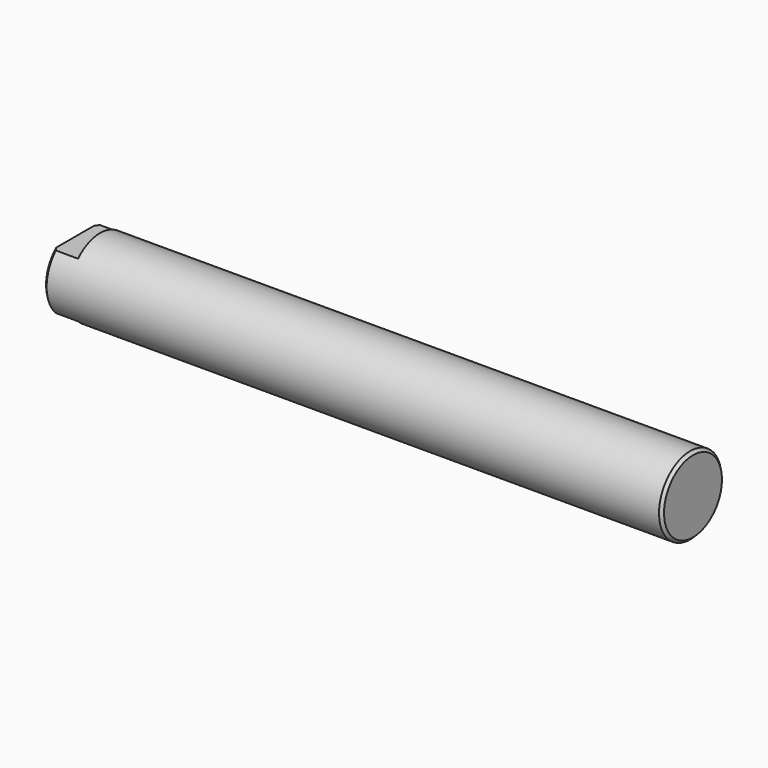
from build123d import *

# Parameters (mm, degrees)
F0_W     = 111
F0_H     = 7
F2_W     = 4.5
F2_H     = 2.05
F3_DEPTH = 12.5
F4_SIZE  = 0.5


with BuildPart() as f1:
    # F0 (on Front) → F1 (revolve)
    with BuildSketch(Plane.XZ):
        with Locations((55.5, 3.5)):
            Rectangle(F0_W, F0_H)
    revolve(axis=Axis((55.5, 0, 0), (-1, 0, 0)))

    # F2 (on Front) → F3 (cut, symmetric)
    with BuildSketch(Plane.XZ):
        with Locations((2.25, 5.975)):
            Rectangle(F2_W, F2_H)
        with Locations((2.25, -5.975)):
            Rectangle(F2_W, F2_H)
    extrude(amount=F3_DEPTH, both=True, mode=Mode.SUBTRACT)

    # F4
    f4_edges = [f1.edges().sort_by_distance(p)[0] for p in [
        (0, -7, 0),
        (0, 7, 0),
        (111, 0, -7),
    ]]
    chamfer(f4_edges, length=F4_SIZE)


solid = f1.part
